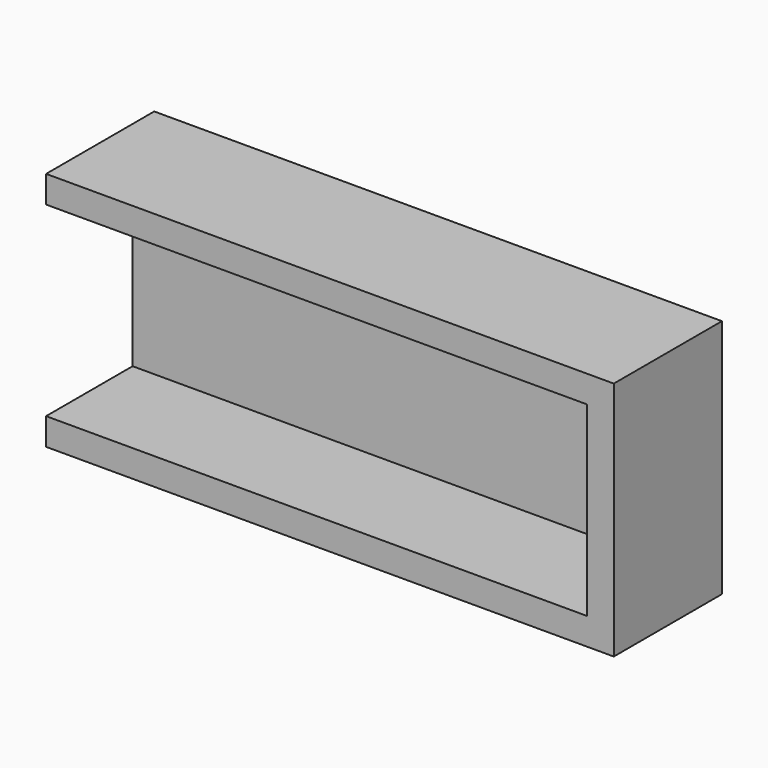
from build123d import *

# Parameters (mm, degrees)
F0_W      = 101.6
F0_H      = 5.08
F1_DEPTH  = 25.4
F0_H_2    = 35
F2_DEPTH  = 5.08
F1_FACE_W = 25.4
F1_FACE_H = 45.1612
F3_DEPTH  = 5.08


with BuildPart() as f1:
    # F0 (on Front) → F1 (new body)
    with BuildSketch(Plane.XZ):
        Polygon((0, -5.08), (0, 0), (0, 35), (0, 40.08), (-5.08, 40.08), (-5.08, -5.0812), (0, -5.0812), align=None)
        with Locations((50.8, -2.54)):
            Rectangle(F0_W, F0_H)
        Polygon((101.6, 35), (101.6, 0), (101.6, -5.08), (101.6, -5.0812), (106.68, -5.0812), (106.68, 40.08), (101.6, 40.08), align=None)
        with Locations((50.8, 37.54)):
            Rectangle(F0_W, F0_H)
    extrude(amount=F1_DEPTH)

    # F0 (on Front) → F2 (join)
    with BuildSketch(Plane.XZ):
        with Locations((50.8, 17.5)):
            Rectangle(F0_W, F0_H_2)
    extrude(amount=F2_DEPTH)

    # F1_face (on face) → F3 (cut)
    with BuildSketch(Plane(origin=(-5.08, -12.7, 17.4994), x_dir=(0, -1, 0), z_dir=(-1, 0, 0))):
        Rectangle(F1_FACE_W, F1_FACE_H)
    extrude(amount=-F3_DEPTH, mode=Mode.SUBTRACT)


solid = f1.part
